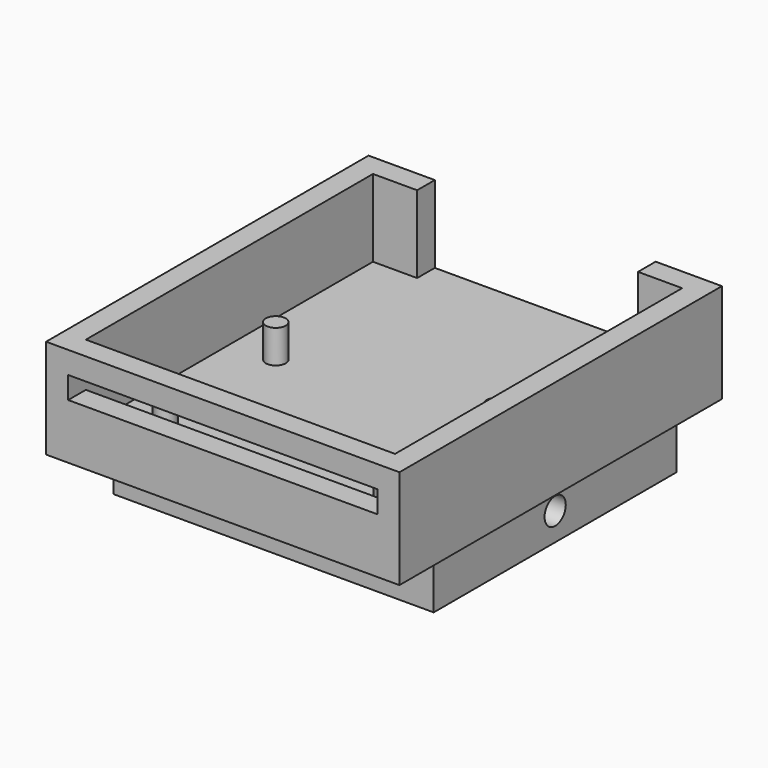
from build123d import *

# Parameters (mm, degrees)
F0_W     = 32
F0_H     = 36.5
F0_W_2   = 28
F0_H_2   = 32.5
F1_DEPTH = 9
F0_R     = 0.9
F2_DEPTH = 2
F3_DEPTH = 5
F4_W     = 28
F4_H     = 2
F5_DEPTH = 2
F6_W     = 20
F6_H     = 7
F7_DEPTH = 2
F8_W     = 29
F8_H     = 27.5
F9_DEPTH = 5
F11_D    = 2.4
F13_D    = 2.4


with BuildPart() as f1:
    # F0 (on Top) → F1 (new body)
    with BuildSketch(Plane.XY):
        with Locations((-98.1993639427, 45.2269401511)):
            Rectangle(F0_W, F0_H)
        with Locations((-98.1993639427, 45.2269401511)):
            Rectangle(F0_W_2, F0_H_2, mode=Mode.SUBTRACT)
    extrude(amount=F1_DEPTH)

    # F0 (on Top) → F2 (join)
    with BuildSketch(Plane.XY):
        with Locations((-98.1993639427, 45.2269401511)):
            Rectangle(F0_W_2, F0_H_2)
        with Locations((-108.1993639427, 32.9769401511)):
            Circle(F0_R, mode=Mode.SUBTRACT)
        with Locations((-88.1993639427, 32.9769401511)):
            Circle(F0_R, mode=Mode.SUBTRACT)
        with Locations((-108.1993639427, 45.4769401511)):
            Circle(F0_R, mode=Mode.SUBTRACT)
        with Locations((-88.1993639427, 45.4769401511)):
            Circle(F0_R, mode=Mode.SUBTRACT)
    extrude(amount=F2_DEPTH)

    # F0 (on Top) → F3 (join)
    with BuildSketch(Plane.XY):
        with Locations((-108.1993639427, 32.9769401511)):
            Circle(F0_R)
        with Locations((-108.1993639427, 45.4769401511)):
            Circle(F0_R)
        with Locations((-88.1993639427, 32.9769401511)):
            Circle(F0_R)
        with Locations((-88.1993639427, 45.4769401511)):
            Circle(F0_R)
    extrude(amount=F3_DEPTH)

    # F4 (on face) → F5 (cut, through all)
    with BuildSketch(Plane.XZ.offset(-26.9769401511)):
        with Locations((-98.1993639427, 6)):
            Rectangle(F4_W, F4_H)
    extrude(amount=-F5_DEPTH, mode=Mode.SUBTRACT)

    # F6 (on face) → F7 (cut, through all)
    with BuildSketch(Plane(origin=(0, 63.4769401511, 0), x_dir=(-1, 0, 0), z_dir=(0, 1, 0))):
        with Locations((98.1993639427, 5.5)):
            Rectangle(F6_W, F6_H)
    extrude(amount=-F7_DEPTH, mode=Mode.SUBTRACT)

    # F8 (on face) → F9 (join)
    with BuildSketch(Plane(origin=(0, 0, 0), x_dir=(1, 0, 0), z_dir=(0, 0, -1))):
        with Locations((-98.1993639427, -46.4769401511)):
            Rectangle(F8_W, F8_H)
        with BuildLine():
            ThreePointArc((-99.1993639427, -35.7269401511), (-98.1993639427, -34.7269401511), (-97.1993639427, -35.7269401511))
            Line((-97.1993639427, -35.7269401511), (-86.6993639427, -35.7269401511))
            Line((-86.6993639427, -35.7269401511), (-86.6993639427, -45.4769401511))
            ThreePointArc((-86.6993639427, -45.4769401511), (-85.9922571615, -45.7698333699), (-85.6993639427, -46.4769401511))
            ThreePointArc((-85.6993639427, -46.4769401511), (-85.9922571615, -47.1840469322), (-86.6993639427, -47.4769401511))
            Line((-86.6993639427, -47.4769401511), (-86.6993639427, -57.2269401511))
            Line((-86.6993639427, -57.2269401511), (-97.1993639427, -57.2269401511))
            ThreePointArc((-97.1993639427, -57.2269401511), (-98.1993639427, -58.2269401511), (-99.1993639427, -57.2269401511))
            Line((-99.1993639427, -57.2269401511), (-109.6993639427, -57.2269401511))
            Line((-109.6993639427, -57.2269401511), (-109.6993639427, -47.4769401511))
            ThreePointArc((-109.6993639427, -47.4769401511), (-110.6993639427, -46.4769401511), (-109.6993639427, -45.4769401511))
            Line((-109.6993639427, -45.4769401511), (-109.6993639427, -35.7269401511))
            Line((-109.6993639427, -35.7269401511), (-99.1993639427, -35.7269401511))
        make_face(mode=Mode.SUBTRACT)
        with BuildLine():
            Line((-86.6993639427, -47.4769401511), (-86.6993639427, -45.4769401511))
            ThreePointArc((-86.6993639427, -45.4769401511), (-87.6993639427, -46.4769401511), (-86.6993639427, -47.4769401511))
        make_face()
        with BuildLine():
            ThreePointArc((-85.6993639427, -46.4769401511), (-85.9922571615, -45.7698333699), (-86.6993639427, -45.4769401511))
            Line((-86.6993639427, -45.4769401511), (-86.6993639427, -47.4769401511))
            ThreePointArc((-86.6993639427, -47.4769401511), (-85.9922571615, -47.1840469322), (-85.6993639427, -46.4769401511))
        make_face()
        with BuildLine():
            Line((-99.1993639427, -35.7269401511), (-97.1993639427, -35.7269401511))
            ThreePointArc((-97.1993639427, -35.7269401511), (-98.1993639427, -34.7269401511), (-99.1993639427, -35.7269401511))
        make_face()
        with BuildLine():
            ThreePointArc((-99.1993639427, -35.7269401511), (-98.1993639427, -36.7269401511), (-97.1993639427, -35.7269401511))
            Line((-97.1993639427, -35.7269401511), (-99.1993639427, -35.7269401511))
        make_face()
        with BuildLine():
            ThreePointArc((-108.6993639427, -46.4769401511), (-108.9922571615, -45.7698333699), (-109.6993639427, -45.4769401511))
            Line((-109.6993639427, -45.4769401511), (-109.6993639427, -47.4769401511))
            ThreePointArc((-109.6993639427, -47.4769401511), (-108.9922571615, -47.1840469322), (-108.6993639427, -46.4769401511))
        make_face()
        with BuildLine():
            Line((-109.6993639427, -47.4769401511), (-109.6993639427, -45.4769401511))
            ThreePointArc((-109.6993639427, -45.4769401511), (-110.6993639427, -46.4769401511), (-109.6993639427, -47.4769401511))
        make_face()
        with BuildLine():
            Line((-99.1993639427, -57.2269401511), (-97.1993639427, -57.2269401511))
            ThreePointArc((-97.1993639427, -57.2269401511), (-98.1993639427, -56.2269401511), (-99.1993639427, -57.2269401511))
        make_face()
        with BuildLine():
            ThreePointArc((-99.1993639427, -57.2269401511), (-98.1993639427, -58.2269401511), (-97.1993639427, -57.2269401511))
            Line((-97.1993639427, -57.2269401511), (-99.1993639427, -57.2269401511))
        make_face()
    extrude(amount=F9_DEPTH)

    # F11 (through all)
    with Locations(Plane(origin=(0, 60.2269401511, 0), x_dir=(-1, 0, 0), z_dir=(0, 1, 0))):
        with Locations((98.1993639427, -2.5)):
            Hole(F11_D / 2)

    # F13 (through all)
    with Locations(Plane(origin=(-112.6993639427, 0, 0), x_dir=(0, -1, 0), z_dir=(-1, 0, 0))):
        with Locations((-46.4769401511, -2.5)):
            Hole(F13_D / 2)


solid = f1.part
